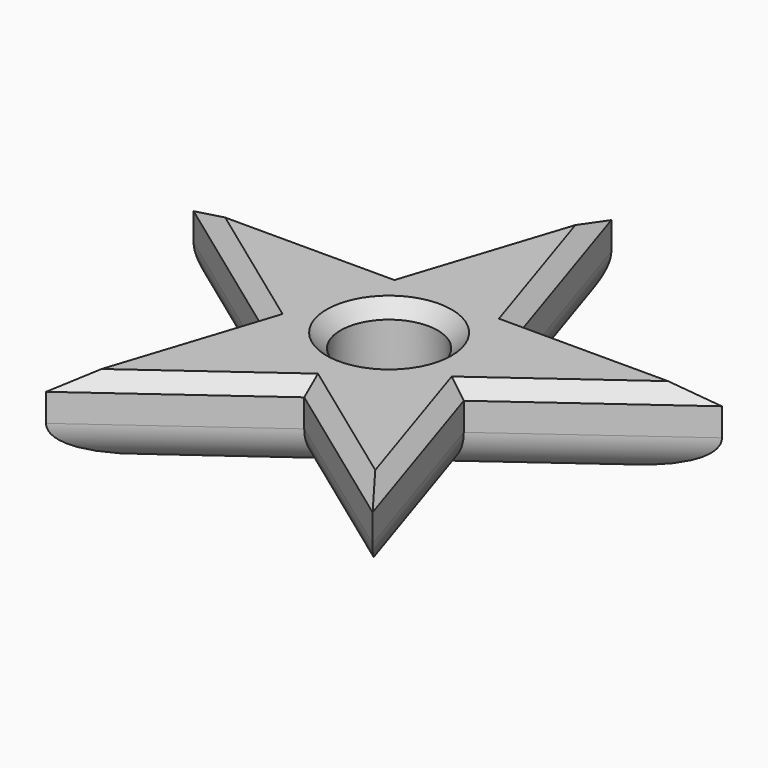
from build123d import *

# Parameters (mm, degrees)
F1_DEPTH = 30
F2_SIZE  = 5
F3_R     = 15
F4_R     = 17.5
F5_DEPTH = 40
F6_SIZE  = 5


with BuildPart() as f1:
    # F0 (on Top) → F1 (new body)
    with BuildSketch(Plane.XY):
        Polygon((22.451399, 30.901699), (0, 100), (-22.451399, 30.901699), (-95.105652, 30.901699), (-36.327126, -11.803399), (-58.778525, -80.901699), (0, -38.196601), (58.778525, -80.901699), (36.327126, -11.803399), (95.105652, 30.901699), align=None)
    extrude(amount=F1_DEPTH)

    # F2
    f2_edges = [f1.edges().sort_by_distance(p)[0] for p in [
        (65.716389, 9.54915, 30),
        (58.778525, 30.901699, 30),
        (11.225699, 65.45085, 30),
        (-11.225699, 65.45085, 30),
        (-58.778525, 30.901699, 30),
        (-65.716389, 9.54915, 30),
        (-47.552826, -46.352549, 30),
        (-29.389263, -59.54915, 30),
        (29.389263, -59.54915, 30),
        (47.552826, -46.352549, 30),
    ]]
    chamfer(f2_edges, length=F2_SIZE)

    # F3
    f3_edges = [f1.edges().sort_by_distance(p)[0] for p in [
        (65.716389, 9.54915, 0),
        (58.778525, 30.901699, 0),
        (11.225699, 65.45085, 0),
        (-11.225699, 65.45085, 0),
        (-58.778525, 30.901699, 0),
        (-65.716389, 9.54915, 0),
        (-47.552826, -46.352549, 0),
        (-29.389263, -59.54915, 0),
        (29.389263, -59.54915, 0),
        (47.552826, -46.352549, 0),
    ]]
    fillet(f3_edges, radius=F3_R)

    # F4 (on face) → F5 (cut)
    with BuildSketch(Plane(origin=(0, 0, 0), x_dir=(1, 0, 0), z_dir=(0, 0, -1))):
        Circle(F4_R)
    extrude(amount=-F5_DEPTH, mode=Mode.SUBTRACT)

    # F6
    f6_edges = [f1.edges().sort_by_distance(p)[0] for p in [
        (-17.5, 0, 30),
    ]]
    chamfer(f6_edges, length=F6_SIZE)


solid = f1.part
